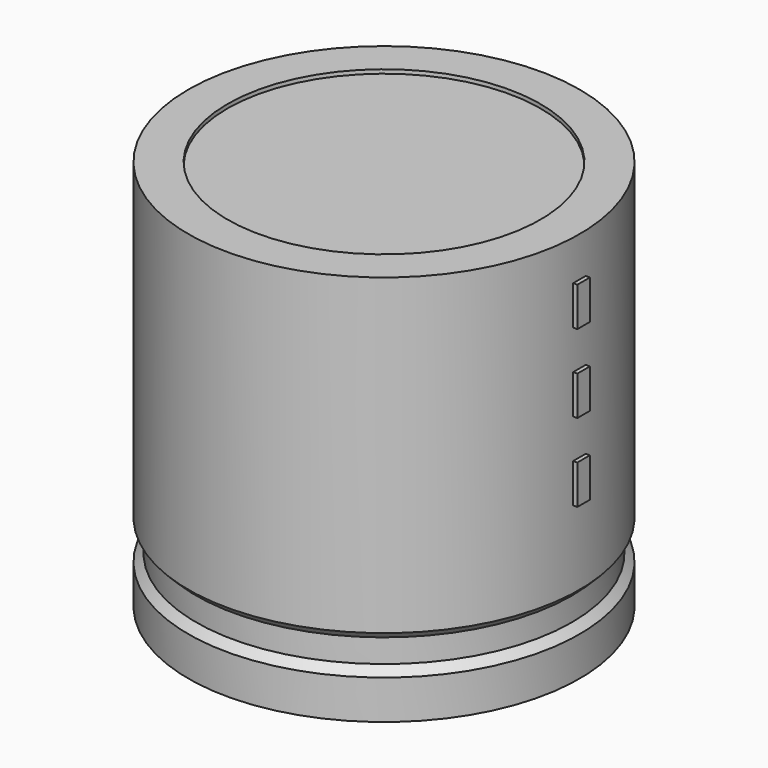
from build123d import *

# Parameters (mm, degrees)
SKETCH002_W   = 18.4
SKETCH002_H   = 39.2
SKETCH003_R   = 0.85
SKETCH003_R_2 = 1.1
PAD_DEPTH     = 7
SKETCH004_W   = 1.6
SKETCH004_H   = 4
PAD001_DEPTH  = 20.4


with BuildPart() as revolution:
    # Sketch → Revolution (revolve)
    with BuildSketch(Plane.XZ):
        Polygon((-15, 0.1), (-15, 4.1), (-14.2, 4.9), (-14.2, 7.3), (-15, 8.1), (-15, 40.1), (-11, 40.1), (-11, 0.1), align=None)
    revolve(axis=Axis((5, 0, 7.548619), (0, 0, -1)))


with BuildPart() as revolution001:
    # Sketch002 → Revolution001 (revolve)
    with BuildSketch(Plane.XZ):
        with Locations((-4.2, 20.1)):
            Rectangle(SKETCH002_W, SKETCH002_H)
    revolve(axis=Axis((5, 0, 4.680116), (0, 0, -1)))


with BuildPart() as pad:
    # Sketch003 → Pad (new body)
    with BuildSketch(Plane.XY.offset(4)):
        Circle(SKETCH003_R)
        with Locations((10, 0)):
            Circle(SKETCH003_R)
        with Locations((6.7, 4.75)):
            Circle(SKETCH003_R_2)
    extrude(amount=-PAD_DEPTH)


with BuildPart() as pad001:
    # Sketch004 → Pad001 (new body)
    with BuildSketch(Plane.YZ.offset(5)):
        with Locations((0, 18)):
            Rectangle(SKETCH004_W, SKETCH004_H)
        with Locations((0, 26)):
            Rectangle(SKETCH004_W, SKETCH004_H)
        with Locations((0, 34)):
            Rectangle(SKETCH004_W, SKETCH004_H)
    extrude(amount=PAD001_DEPTH)


solid = Compound([revolution.part, revolution001.part, pad.part, pad001.part])
